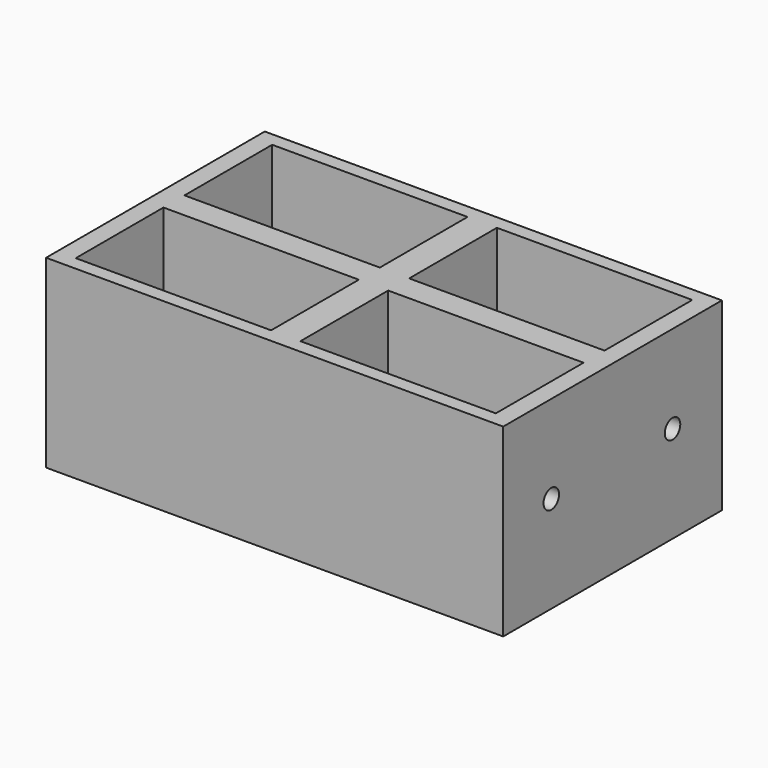
from build123d import *

# Parameters (mm, degrees)
F0_W     = 129.8851817846
F0_H     = 77.667824924
F0_W_2   = 55.5083644576
F0_H_2   = 7.4596218765
F0_W_3   = 55.5083635263
F1_DEPTH = 50
F0_H_3   = 31.1548877507
F2_DEPTH = 2.5
F4_D     = 5.5
F4_DEPTH = 69.1122023778
F5_D     = 5.5


with BuildPart() as f1:
    # F0 (on Top) → F1 (new body)
    with BuildSketch(Plane.XY):
        Rectangle(F0_W, F0_H)
        Polygon((-59.6769750118, 3.7298109382), (-59.6769750118, 34.884698689), (-4.1686114855, 34.884698689), (4.1686105542, 34.884698689), (59.6769750118, 34.884698689), (59.6769750118, 3.7298109382), (59.6769750118, -3.7298109382), (59.6769750118, -34.884698689), (4.1686105542, -34.884698689), (-4.1686114855, -34.884698689), (-59.6769750118, -34.884698689), (-59.6769750118, -3.7298109382), align=None, mode=Mode.SUBTRACT)
        with Locations((31.922792783, 0)):
            Rectangle(F0_W_2, F0_H_2)
        with Locations((-31.9227932487, 0)):
            Rectangle(F0_W_3, F0_H_2)
        Polygon((4.1686105542, 34.884698689), (-4.1686114855, 34.884698689), (-4.1686114855, 3.7298109382), (-4.1686114855, -3.7298109382), (-4.1686114855, -34.884698689), (4.1686105542, -34.884698689), (4.1686105542, -3.7298109382), (4.1686105542, 3.7298109382), align=None)
    extrude(amount=F1_DEPTH)

    # F0 (on Top) → F2 (join)
    with BuildSketch(Plane.XY):
        Rectangle(F0_W, F0_H)
        Polygon((-59.6769750118, 3.7298109382), (-59.6769750118, 34.884698689), (-4.1686114855, 34.884698689), (4.1686105542, 34.884698689), (59.6769750118, 34.884698689), (59.6769750118, 3.7298109382), (59.6769750118, -3.7298109382), (59.6769750118, -34.884698689), (4.1686105542, -34.884698689), (-4.1686114855, -34.884698689), (-59.6769750118, -34.884698689), (-59.6769750118, -3.7298109382), align=None, mode=Mode.SUBTRACT)
        with Locations((-31.9227932487, -19.3072548136)):
            Rectangle(F0_W_3, F0_H_3)
        with Locations((-31.9227932487, 19.3072548136)):
            Rectangle(F0_W_3, F0_H_3)
        with Locations((31.922792783, -19.3072548136)):
            Rectangle(F0_W_2, F0_H_3)
        with Locations((31.922792783, 19.3072548136)):
            Rectangle(F0_W_2, F0_H_3)
        with Locations((31.922792783, 0)):
            Rectangle(F0_W_2, F0_H_2)
        Polygon((4.1686105542, 34.884698689), (-4.1686114855, 34.884698689), (-4.1686114855, 3.7298109382), (-4.1686114855, -3.7298109382), (-4.1686114855, -34.884698689), (4.1686105542, -34.884698689), (4.1686105542, -3.7298109382), (4.1686105542, 3.7298109382), align=None)
        with Locations((-31.9227932487, 0)):
            Rectangle(F0_W_3, F0_H_2)
    extrude(amount=-F2_DEPTH)

    # F4 (through all, one way)
    with BuildSketch(Plane(origin=(-4.1686114855, 0, 0), x_dir=(0, -1, 0), z_dir=(-1, 0, 0))):
        with Locations((21.7673890293, 25), (-21.2901681662, 25)):
            Circle(F4_D / 2)
    extrude(amount=-F4_DEPTH, mode=Mode.SUBTRACT)

    # F5 (through all)
    with Locations(Plane(origin=(-4.1686114855, 0, 0), x_dir=(0, -1, 0), z_dir=(1, 0, 0))):
        with Locations((-21.2901681662, -25), (21.7673890293, -25)):
            Hole(F5_D / 2)


solid = f1.part
